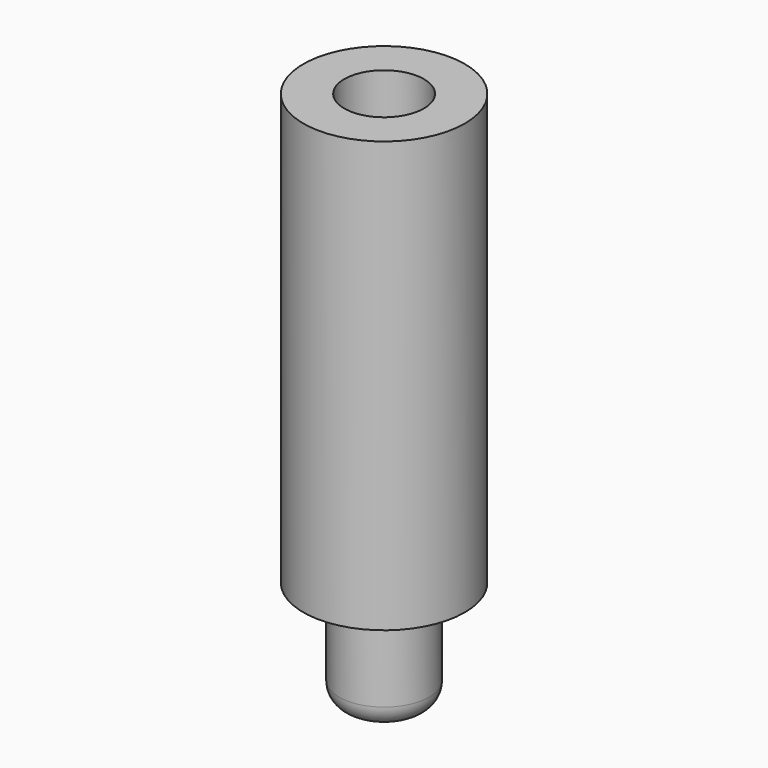
from build123d import *

# Parameters (mm, degrees)
SKETCH_R     = 3.75
PAD_DEPTH    = 20
SKETCH001_R  = 1.85
POCKET_DEPTH = 9
SKETCH002_R  = 2.1
PAD001_DEPTH = 5
FILLET_R     = 1


with BuildPart() as part:
    # Sketch → Pad (new body)
    with BuildSketch(Plane.XY):
        Circle(SKETCH_R)
    extrude(amount=PAD_DEPTH)

    # Sketch001 (on Face3 of Pad) → Pocket (cut)
    with BuildSketch(Plane.XY.offset(20)):
        Circle(SKETCH001_R)
    extrude(amount=-POCKET_DEPTH, mode=Mode.SUBTRACT)

    # Sketch002 (on Face2 of Pocket) → Pad001 (join)
    with BuildSketch(Plane(origin=(0, 0, 0), x_dir=(1, 0, 0), z_dir=(0, 0, -1))):
        Circle(SKETCH002_R)
    extrude(amount=PAD001_DEPTH)

    # Fillet
    fillet_edges = [part.edges().sort_by_distance(p)[0] for p in [
        (-2.1, 0, -5),
    ]]
    fillet(fillet_edges, radius=FILLET_R)


solid = part.part
